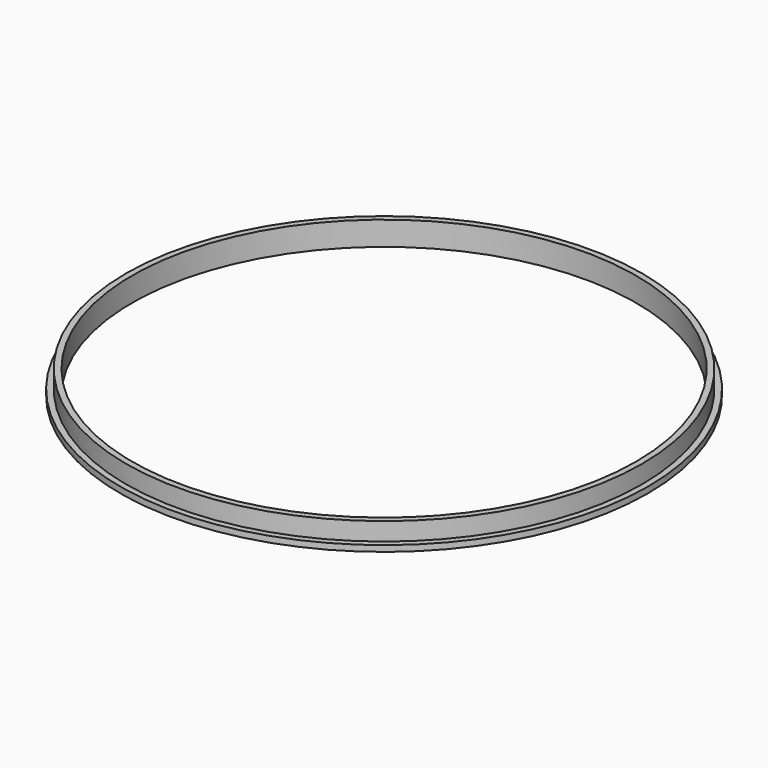
from build123d import *

# Parameters (mm, degrees)
SKETCH_R     = 22
PAD_DEPTH    = 0.5
SKETCH001_R  = 21.5
PAD001_DEPTH = 1.5
SKETCH002_R  = 21
POCKET_DEPTH = 5


with BuildPart() as part:
    # Sketch → Pad (new body)
    with BuildSketch(Plane.XY):
        Circle(SKETCH_R)
    extrude(amount=PAD_DEPTH)

    # Sketch001 (on Face3 of Pad) → Pad001 (join)
    with BuildSketch(Plane.XY.offset(0.5)):
        Circle(SKETCH001_R)
    extrude(amount=PAD001_DEPTH)

    # Sketch002 (on Face5 of Pad001) → Pocket (cut)
    with BuildSketch(Plane.XY.offset(2)):
        Circle(SKETCH002_R)
    extrude(amount=-POCKET_DEPTH, mode=Mode.SUBTRACT)


solid = part.part
